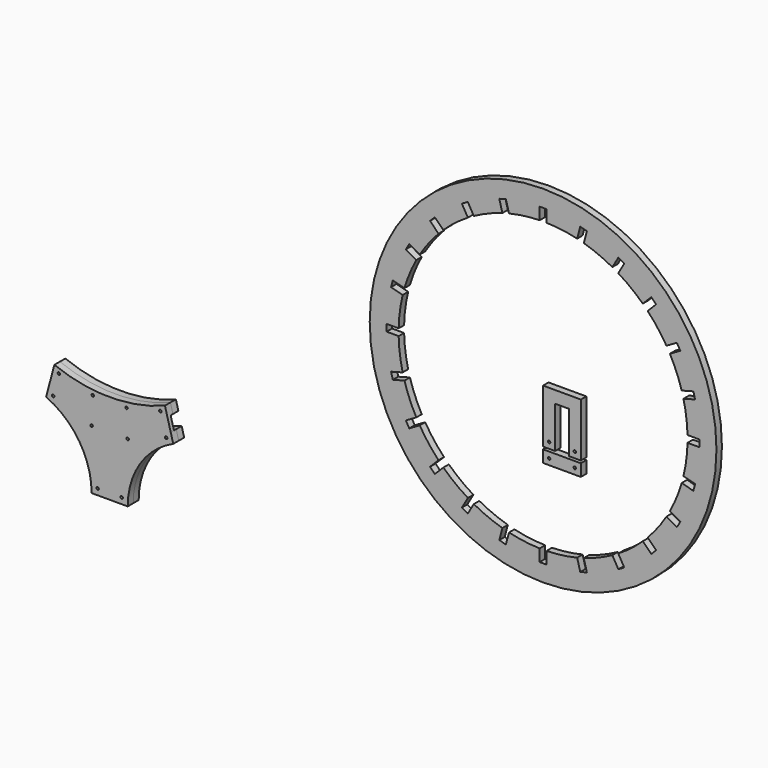
from build123d import *

# Parameters (mm, degrees)
F0_R     = 3.302
F1_DEPTH = 18.034
F0_R_2   = 457.2
F0_W     = 99.568
F0_H     = 31.75
F2_DEPTH = 18.034
F3_START = 7.366
F0_W_2   = 31.75
F0_H_2   = 156.5599524887
F3_DEPTH = 10.668


with BuildPart() as f1:
    # F0 (on Front) → F1 (new body)
    with BuildSketch(Plane.XZ):
        with BuildLine():
            Line((-145.786556109, -370.9032929671), (-152.4, -395.5850015812))
            ThreePointArc((-152.4, -395.5850015812), (-118.6237712907, -406.9909757731), (-84.0086367596, -415.5187148924))
            ThreePointArc((-84.0086367596, -415.5187148924), (35.618574832, -422.4270003242), (152.4, -395.5850015812))
            Line((152.4, -395.5850015812), (145.786556109, -370.9032929671))
            ThreePointArc((145.786556109, -370.9032929671), (0, -398.526), (-145.786556109, -370.9032929671))
        make_face()
        with Locations((-133.7592055622, -387.3528996152)):
            Circle(F0_R, mode=Mode.SUBTRACT)
        with Locations((-44.45, -408.8166099561)):
            Circle(F0_R, mode=Mode.SUBTRACT)
        with Locations((44.45, -408.8166099561)):
            Circle(F0_R, mode=Mode.SUBTRACT)
        with Locations((133.7592055622, -387.3528996152)):
            Circle(F0_R, mode=Mode.SUBTRACT)
    extrude(amount=F1_DEPTH)



with BuildPart() as f1b:
    # F0 (on Front) → F1, piece 2 (new body)
    with BuildSketch(Plane.XZ):
        with BuildLine():
            ThreePointArc((-90.6024842224, -448.1328261272), (-126.2359960354, -439.4272559878), (-161.0569290601, -427.8931006709))
            Line((-161.0569290601, -427.8931006709), (-167.6610679449, -452.5400825293))
            ThreePointArc((-167.6610679449, -452.5400825293), (-80.2808744559, -526.8475279635), (-47.625, -636.804285485))
            Line((-47.625, -636.804285485), (-15.875, -636.804285485))
            Line((-15.875, -636.804285485), (-15.875, -480.2443329962))
            Line((-15.875, -480.2443329962), (15.875, -480.2443329962))
            Line((15.875, -480.2443329962), (15.875, -636.804285485))
            Line((15.875, -636.804285485), (47.625, -636.804285485))
            ThreePointArc((47.625, -636.804285485), (80.2808744559, -526.8475279635), (167.6610679449, -452.5400825293))
            Line((167.6610679449, -452.5400825293), (161.0569290601, -427.8931006709))
            ThreePointArc((161.0569290601, -427.8931006709), (36.6519961391, -455.7285059978), (-90.6024842224, -448.1328261272))
        make_face()
        with Locations((-31.75, -620.929285485)):
            Circle(F0_R, mode=Mode.SUBTRACT)
        with Locations((31.75, -620.929285485)):
            Circle(F0_R, mode=Mode.SUBTRACT)
        with Locations((-149.0249260101, -444.3253439411)):
            Circle(F0_R, mode=Mode.SUBTRACT)
        with Locations((-47.625, -480.2443329962)):
            Circle(F0_R, mode=Mode.SUBTRACT)
        with Locations((47.625, -480.2443329962)):
            Circle(F0_R, mode=Mode.SUBTRACT)
        with Locations((149.0249260101, -444.3253439411)):
            Circle(F0_R, mode=Mode.SUBTRACT)
    extrude(amount=F1_DEPTH)


with BuildPart() as f1c:
    # F0 (on Front) → F1, piece 3 (new body)
    with BuildSketch(Plane.XZ):
        with Locations((1143, 0)):
            Circle(F0_R_2)
        with BuildLine():
            ThreePointArc((1513.2484312972, 89.8726828462), (1520.7404921834, 49.7304792358), (1523.893283888, 9.017))
            Line((1523.893283888, 9.017), (1555.643283888, 9.017))
            Line((1555.643283888, 9.017), (1555.643283888, -9.017))
            Line((1555.643283888, -9.017), (1523.893283888, -9.017))
            ThreePointArc((1523.893283888, -9.017), (1520.7404921834, -49.7304792358), (1513.2484312972, -89.8726828462))
            Line((1513.2484312972, -89.8726828462), (1543.9165762819, -98.0901875282))
            Line((1543.9165762819, -98.0901875282), (1539.2490336225, -115.5096938795))
            Line((1539.2490336225, -115.5096938795), (1508.5808886378, -107.2921891975))
            ThreePointArc((1508.5808886378, -107.2921891975), (1494.9981018868, -145.8023877311), (1477.3717599779, -182.6376908781))
            Line((1477.3717599779, -182.6376908781), (1504.8680665481, -198.5126908781))
            Line((1504.8680665481, -198.5126908781), (1495.8510665481, -214.1305930099))
            Line((1495.8510665481, -214.1305930099), (1468.3547599779, -198.2555930099))
            ThreePointArc((1468.3547599779, -198.2555930099), (1445.267622651, -231.9381044523), (1418.7082057916, -262.9562420997))
            Line((1418.7082057916, -262.9562420997), (1441.1588460943, -285.4068824023))
            Line((1441.1588460943, -285.4068824023), (1428.4068824023, -298.1588460943))
            Line((1428.4068824023, -298.1588460943), (1405.9562420997, -275.7082057916))
            ThreePointArc((1405.9562420997, -275.7082057916), (1374.9381044523, -302.267622651), (1341.2555930099, -325.3547599779))
            Line((1341.2555930099, -325.3547599779), (1357.1305930099, -352.8510665481))
            Line((1357.1305930099, -352.8510665481), (1341.5126908781, -361.8680665481))
            Line((1341.5126908781, -361.8680665481), (1325.6376908781, -334.3717599779))
            ThreePointArc((1325.6376908781, -334.3717599779), (1288.8023877311, -351.9981018868), (1250.2921891975, -365.5808886378))
            Line((1250.2921891975, -365.5808886378), (1258.5096938795, -396.2490336225))
            Line((1258.5096938795, -396.2490336225), (1241.0901875282, -400.9165762819))
            Line((1241.0901875282, -400.9165762819), (1232.8726828462, -370.2484312972))
            ThreePointArc((1232.8726828462, -370.2484312972), (1192.7304792358, -377.7404921834), (1152.017, -380.893283888))
            Line((1152.017, -380.893283888), (1152.017, -412.643283888))
            Line((1152.017, -412.643283888), (1133.983, -412.643283888))
            Line((1133.983, -412.643283888), (1133.983, -380.893283888))
            ThreePointArc((1133.983, -380.893283888), (1093.2695207642, -377.7404921834), (1053.1273171538, -370.2484312972))
            Line((1053.1273171538, -370.2484312972), (1044.9098124718, -400.9165762819))
            Line((1044.9098124718, -400.9165762819), (1027.4903061205, -396.2490336225))
            Line((1027.4903061205, -396.2490336225), (1035.7078108025, -365.5808886378))
            ThreePointArc((1035.7078108025, -365.5808886378), (997.1976122689, -351.9981018868), (960.3623091219, -334.3717599779))
            Line((960.3623091219, -334.3717599779), (944.4873091219, -361.8680665481))
            Line((944.4873091219, -361.8680665481), (928.8694069901, -352.8510665481))
            Line((928.8694069901, -352.8510665481), (944.7444069901, -325.3547599779))
            ThreePointArc((944.7444069901, -325.3547599779), (911.0618955477, -302.267622651), (880.0437579003, -275.7082057916))
            Line((880.0437579003, -275.7082057916), (857.5931175977, -298.1588460943))
            Line((857.5931175977, -298.1588460943), (844.8411539057, -285.4068824023))
            Line((844.8411539057, -285.4068824023), (867.2917942084, -262.9562420997))
            ThreePointArc((867.2917942084, -262.9562420997), (840.732377349, -231.9381044523), (817.6452400221, -198.2555930099))
            Line((817.6452400221, -198.2555930099), (790.1489334519, -214.1305930099))
            Line((790.1489334519, -214.1305930099), (781.1319334519, -198.5126908781))
            Line((781.1319334519, -198.5126908781), (808.6282400221, -182.6376908781))
            ThreePointArc((808.6282400221, -182.6376908781), (791.0018981132, -145.8023877311), (777.4191113622, -107.2921891975))
            Line((777.4191113622, -107.2921891975), (746.7509663775, -115.5096938795))
            Line((746.7509663775, -115.5096938795), (742.0834237181, -98.0901875282))
            Line((742.0834237181, -98.0901875282), (772.7515687028, -89.8726828462))
            ThreePointArc((772.7515687028, -89.8726828462), (765.2595078166, -49.7304792358), (762.106716112, -9.017))
            Line((762.106716112, -9.017), (730.356716112, -9.017))
            Line((730.356716112, -9.017), (730.356716112, 9.017))
            Line((730.356716112, 9.017), (762.106716112, 9.017))
            ThreePointArc((762.106716112, 9.017), (765.2595078166, 49.7304792358), (772.7515687028, 89.8726828462))
            Line((772.7515687028, 89.8726828462), (742.0834237181, 98.0901875282))
            Line((742.0834237181, 98.0901875282), (746.7509663775, 115.5096938795))
            Line((746.7509663775, 115.5096938795), (777.4191113622, 107.2921891975))
            ThreePointArc((777.4191113622, 107.2921891975), (791.0018981132, 145.8023877311), (808.6282400221, 182.6376908781))
            Line((808.6282400221, 182.6376908781), (781.1319334519, 198.5126908781))
            Line((781.1319334519, 198.5126908781), (790.1489334519, 214.1305930099))
            Line((790.1489334519, 214.1305930099), (817.6452400221, 198.2555930099))
            ThreePointArc((817.6452400221, 198.2555930099), (840.732377349, 231.9381044523), (867.2917942084, 262.9562420997))
            Line((867.2917942084, 262.9562420997), (844.8411539057, 285.4068824023))
            Line((844.8411539057, 285.4068824023), (857.5931175977, 298.1588460943))
            Line((857.5931175977, 298.1588460943), (880.0437579003, 275.7082057916))
            ThreePointArc((880.0437579003, 275.7082057916), (911.0618955477, 302.267622651), (944.7444069901, 325.3547599779))
            Line((944.7444069901, 325.3547599779), (928.8694069901, 352.8510665481))
            Line((928.8694069901, 352.8510665481), (944.4873091219, 361.8680665481))
            Line((944.4873091219, 361.8680665481), (960.3623091219, 334.3717599779))
            ThreePointArc((960.3623091219, 334.3717599779), (997.1976122689, 351.9981018868), (1035.7078108025, 365.5808886378))
            Line((1035.7078108025, 365.5808886378), (1027.4903061205, 396.2490336225))
            Line((1027.4903061205, 396.2490336225), (1044.9098124718, 400.9165762819))
            Line((1044.9098124718, 400.9165762819), (1053.1273171538, 370.2484312972))
            ThreePointArc((1053.1273171538, 370.2484312972), (1093.2695207642, 377.7404921834), (1133.983, 380.893283888))
            Line((1133.983, 380.893283888), (1133.983, 412.643283888))
            Line((1133.983, 412.643283888), (1152.017, 412.643283888))
            Line((1152.017, 412.643283888), (1152.017, 380.893283888))
            ThreePointArc((1152.017, 380.893283888), (1192.7304792358, 377.7404921834), (1232.8726828462, 370.2484312972))
            Line((1232.8726828462, 370.2484312972), (1241.0901875282, 400.9165762819))
            Line((1241.0901875282, 400.9165762819), (1258.5096938795, 396.2490336225))
            Line((1258.5096938795, 396.2490336225), (1250.2921891975, 365.5808886378))
            ThreePointArc((1250.2921891975, 365.5808886378), (1288.8023877311, 351.9981018868), (1325.6376908781, 334.3717599779))
            Line((1325.6376908781, 334.3717599779), (1341.5126908781, 361.8680665481))
            Line((1341.5126908781, 361.8680665481), (1357.1305930099, 352.8510665481))
            Line((1357.1305930099, 352.8510665481), (1341.2555930099, 325.3547599779))
            ThreePointArc((1341.2555930099, 325.3547599779), (1374.9381044523, 302.267622651), (1405.9562420997, 275.7082057916))
            Line((1405.9562420997, 275.7082057916), (1428.4068824023, 298.1588460943))
            Line((1428.4068824023, 298.1588460943), (1441.1588460943, 285.4068824023))
            Line((1441.1588460943, 285.4068824023), (1418.7082057916, 262.9562420997))
            ThreePointArc((1418.7082057916, 262.9562420997), (1445.267622651, 231.9381044523), (1468.3547599779, 198.2555930099))
            Line((1468.3547599779, 198.2555930099), (1495.8510665481, 214.1305930099))
            Line((1495.8510665481, 214.1305930099), (1504.8680665481, 198.5126908781))
            Line((1504.8680665481, 198.5126908781), (1477.3717599779, 182.6376908781))
            ThreePointArc((1477.3717599779, 182.6376908781), (1494.9981018868, 145.8023877311), (1508.5808886378, 107.2921891975))
            Line((1508.5808886378, 107.2921891975), (1539.2490336225, 115.5096938795))
            Line((1539.2490336225, 115.5096938795), (1543.9165762819, 98.0901875282))
            Line((1543.9165762819, 98.0901875282), (1513.2484312972, 89.8726828462))
        make_face(mode=Mode.SUBTRACT)
    extrude(amount=F1_DEPTH)


with BuildPart() as f1d:
    # F0 (on Front) → F1, piece 4 (new body)
    with BuildSketch(Plane.XZ):
        Polygon((1242.568, 0), (1143, 0), (1143, -109.885516112), (1143, -141.635516112), (1174.75, -141.635516112), (1174.75, -109.885516112), (1174.75, -31.75), (1210.818, -31.75), (1210.818, -109.885516112), (1210.818, -141.635516112), (1242.568, -141.635516112), (1242.568, -109.885516112), align=None)
        with Locations((1158.875, -125.760516112)):
            Circle(F0_R, mode=Mode.SUBTRACT)
        with Locations((1226.693, -125.760516112)):
            Circle(F0_R, mode=Mode.SUBTRACT)
    extrude(amount=F1_DEPTH)


with BuildPart() as f1e:
    # F0 (on Front) → F1, piece 5 (new body)
    with BuildSketch(Plane.XZ):
        with Locations((1192.784, -163.860516112)):
            Rectangle(F0_W, F0_H)
        with Locations((1158.875, -163.860516112)):
            Circle(F0_R, mode=Mode.SUBTRACT)
        with Locations((1226.693, -163.860516112)):
            Circle(F0_R, mode=Mode.SUBTRACT)
    extrude(amount=F1_DEPTH)


with BuildPart() as f2:
    # F0 (on Front) → F2 (new body)
    with BuildSketch(Plane.XZ):
        with BuildLine():
            Line((-145.786556109, -370.9032929671), (-152.4, -395.5850015812))
            ThreePointArc((-152.4, -395.5850015812), (-118.6237712907, -406.9909757731), (-84.0086367596, -415.5187148924))
            ThreePointArc((-84.0086367596, -415.5187148924), (35.618574832, -422.4270003242), (152.4, -395.5850015812))
            Line((152.4, -395.5850015812), (145.786556109, -370.9032929671))
            ThreePointArc((145.786556109, -370.9032929671), (0, -398.526), (-145.786556109, -370.9032929671))
        make_face()
        with Locations((-133.7592055622, -387.3528996152)):
            Circle(F0_R, mode=Mode.SUBTRACT)
        with Locations((-44.45, -408.8166099561)):
            Circle(F0_R, mode=Mode.SUBTRACT)
        with Locations((44.45, -408.8166099561)):
            Circle(F0_R, mode=Mode.SUBTRACT)
        with Locations((133.7592055622, -387.3528996152)):
            Circle(F0_R, mode=Mode.SUBTRACT)
    extrude(amount=-F2_DEPTH)


with BuildPart() as f2b:
    # F0 (on Front) → F2, piece 2 (new body)
    with BuildSketch(Plane.XZ):
        with BuildLine():
            ThreePointArc((-90.6024842224, -448.1328261272), (-126.2359960354, -439.4272559878), (-161.0569290601, -427.8931006709))
            Line((-161.0569290601, -427.8931006709), (-167.6610679449, -452.5400825293))
            ThreePointArc((-167.6610679449, -452.5400825293), (-80.2808744559, -526.8475279635), (-47.625, -636.804285485))
            Line((-47.625, -636.804285485), (-15.875, -636.804285485))
            Line((-15.875, -636.804285485), (-15.875, -480.2443329962))
            Line((-15.875, -480.2443329962), (15.875, -480.2443329962))
            Line((15.875, -480.2443329962), (15.875, -636.804285485))
            Line((15.875, -636.804285485), (47.625, -636.804285485))
            ThreePointArc((47.625, -636.804285485), (80.2808744559, -526.8475279635), (167.6610679449, -452.5400825293))
            Line((167.6610679449, -452.5400825293), (161.0569290601, -427.8931006709))
            ThreePointArc((161.0569290601, -427.8931006709), (36.6519961391, -455.7285059978), (-90.6024842224, -448.1328261272))
        make_face()
        with Locations((-31.75, -620.929285485)):
            Circle(F0_R, mode=Mode.SUBTRACT)
        with Locations((31.75, -620.929285485)):
            Circle(F0_R, mode=Mode.SUBTRACT)
        with Locations((-149.0249260101, -444.3253439411)):
            Circle(F0_R, mode=Mode.SUBTRACT)
        with Locations((-47.625, -480.2443329962)):
            Circle(F0_R, mode=Mode.SUBTRACT)
        with Locations((47.625, -480.2443329962)):
            Circle(F0_R, mode=Mode.SUBTRACT)
        with Locations((149.0249260101, -444.3253439411)):
            Circle(F0_R, mode=Mode.SUBTRACT)
    extrude(amount=-F2_DEPTH)


with BuildPart() as f1_1:
    add(f1.part)

    add(f1b.part)  # F3 merges F1b
    # F0 (on Front) → F3 (join)
    with BuildSketch(Plane.XZ.offset(F3_START)):
        with BuildLine():
            ThreePointArc((-84.0086367596, -415.5187148924), (-118.6237712907, -406.9909757731), (-152.4, -395.5850015812))
            Line((-152.4, -395.5850015812), (-161.0569290601, -427.8931006709))
            ThreePointArc((-161.0569290601, -427.8931006709), (-126.2359960354, -439.4272559878), (-90.6024842224, -448.1328261272))
            ThreePointArc((-90.6024842224, -448.1328261272), (36.6519961391, -455.7285059978), (161.0569290601, -427.8931006709))
            Line((161.0569290601, -427.8931006709), (152.4, -395.5850015812))
            ThreePointArc((152.4, -395.5850015812), (35.618574832, -422.4270003242), (-84.0086367596, -415.5187148924))
        make_face()
        with BuildLine():
            ThreePointArc((-84.0086367596, -415.5187148924), (-118.6237712907, -406.9909757731), (-152.4, -395.5850015812))
            Line((-152.4, -395.5850015812), (-161.0569290601, -427.8931006709))
            ThreePointArc((-161.0569290601, -427.8931006709), (-126.2359960354, -439.4272559878), (-90.6024842224, -448.1328261272))
            ThreePointArc((-90.6024842224, -448.1328261272), (36.6519961391, -455.7285059978), (161.0569290601, -427.8931006709))
            Line((161.0569290601, -427.8931006709), (152.4, -395.5850015812))
            ThreePointArc((152.4, -395.5850015812), (35.618574832, -422.4270003242), (-84.0086367596, -415.5187148924))
        make_face()
        with Locations((0, -558.5243092406)):
            Rectangle(F0_W_2, F0_H_2)
    extrude(amount=F3_DEPTH)


solid = Compound([f1c.part, f1d.part, f1e.part, f2.part, f2b.part, f1_1.part])
